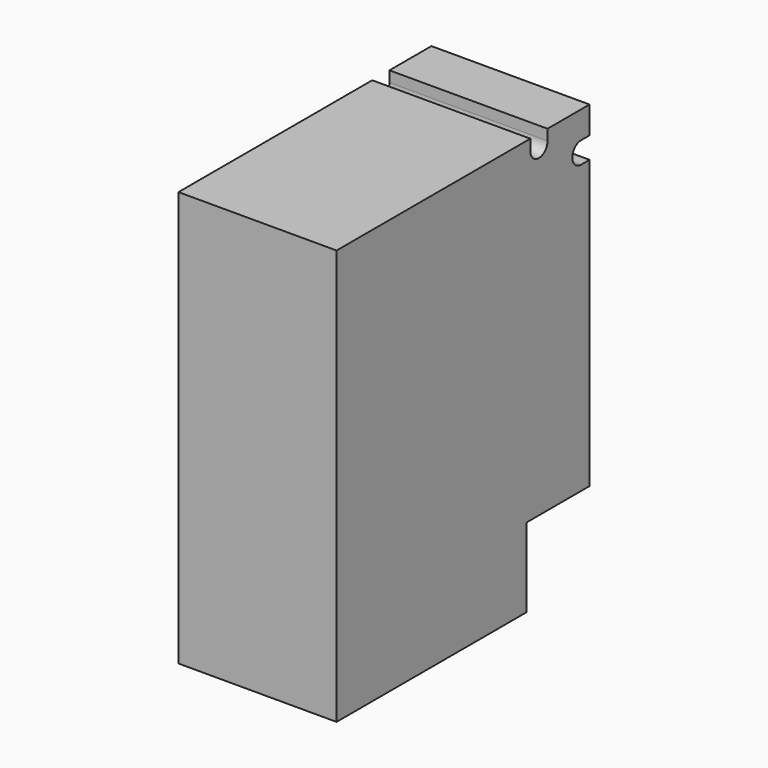
from build123d import *

# Parameters (mm, degrees)
F1_DEPTH = 12.7


with BuildPart() as f1:
    # F0 (on Right) → F1 (new body)
    with BuildSketch(Plane.YZ):
        with BuildLine():
            Line((-15.011845, 36.838097), (-34.468245, 36.838097))
            Line((-34.468245, 36.838097), (-34.468245, 3.500597))
            Line((-34.468245, 3.500597), (-15.418245, 3.500597))
            Line((-15.418245, 3.500597), (-15.418245, 9.850597))
            Line((-15.418245, 9.850597), (-9.068245, 9.850597))
            Line((-9.068245, 9.850597), (-9.068245, 32.926497))
            Line((-9.068245, 32.926497), (-9.931845, 32.926497))
            ThreePointArc((-9.931845, 32.926497), (-10.795445, 33.790097), (-9.931845, 34.653697))
            Line((-9.931845, 34.653697), (-9.068245, 34.653697))
            Line((-9.068245, 34.653697), (-9.068245, 36.838097))
            Line((-9.068245, 36.838097), (-13.284645, 36.838097))
            Line((-13.284645, 36.838097), (-13.284645, 35.974497))
            ThreePointArc((-13.284645, 35.974497), (-14.148245, 35.110897), (-15.011845, 35.974497))
            Line((-15.011845, 35.974497), (-15.011845, 36.838097))
        make_face()
    extrude(amount=F1_DEPTH)


solid = f1.part
